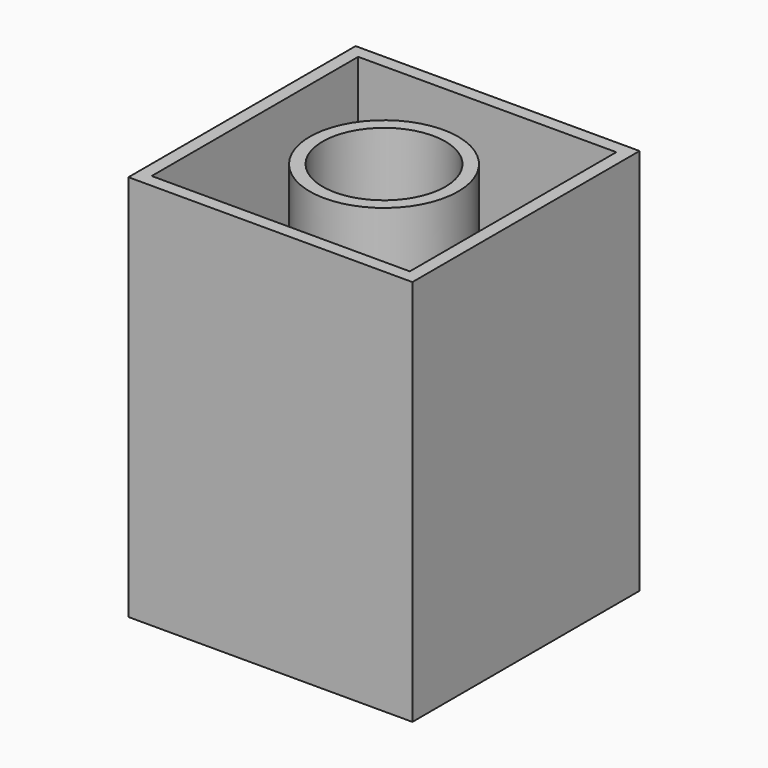
from build123d import *

# Parameters (mm, degrees)
F0_R     = 11.5
F0_R_2   = 9.5
F1_DEPTH = 60
F0_W     = 44
F0_H     = 44
F0_W_2   = 40
F0_H_2   = 40
F2_DEPTH = 60
F3_DEPTH = 2


with BuildPart() as f1:
    # F0 (on Top) → F1 (new body)
    with BuildSketch(Plane.XY):
        Circle(F0_R)
        Circle(F0_R_2, mode=Mode.SUBTRACT)
    extrude(amount=F1_DEPTH)



with BuildPart() as f2:
    # F0 (on Top) → F2 (new body)
    with BuildSketch(Plane.XY):
        Rectangle(F0_W, F0_H)
        Rectangle(F0_W_2, F0_H_2, mode=Mode.SUBTRACT)
    extrude(amount=F2_DEPTH)


with BuildPart() as f1_1:
    add(f1.part)

    add(f2.part)  # F3 merges F2
    # F0 (on Top) → F3 (join)
    with BuildSketch(Plane.XY):
        Rectangle(F0_W_2, F0_H_2)
        Circle(F0_R, mode=Mode.SUBTRACT)
    extrude(amount=F3_DEPTH)


solid = f1_1.part
